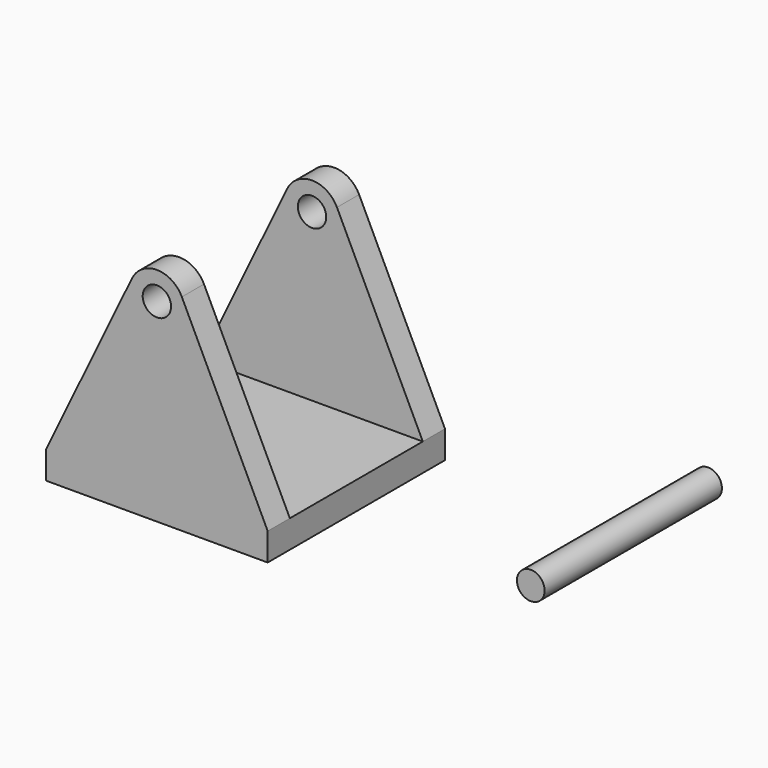
from build123d import *

# Parameters (mm, degrees)
F0_R     = 3.175
F1_DEPTH = 50.8
F0_W     = 50.8
F0_H     = 6.35
F2_DEPTH = 50.8
F0_R_2   = 3.2512
F3_DEPTH = 6.35
F4_R     = 3.2512
F5_DEPTH = 6.35


with BuildPart() as f1:
    # F0 (on Front) → F1 (new body)
    with BuildSketch(Plane.XZ):
        with Locations((38.885698, 34.820646)):
            Circle(F0_R)
    extrude(amount=F1_DEPTH)


with BuildPart() as f2:
    # F0 (on Front) → F2 (new body)
    with BuildSketch(Plane.XZ):
        with Locations((-46.82683, 23.011949)):
            Rectangle(F0_W, F0_H)
    extrude(amount=F2_DEPTH)

    # F0 (on Front) → F3 (join)
    with BuildSketch(Plane.XZ):
        with BuildLine():
            Line((-52.547761, 67.04257), (-72.22683, 26.186949))
            Line((-72.22683, 26.186949), (-21.42683, 26.186949))
            Line((-21.42683, 26.186949), (-41.105899, 67.04257))
            ThreePointArc((-41.105899, 67.04257), (-40.636094, 65.700205), (-40.47683, 64.286949))
            ThreePointArc((-40.47683, 64.286949), (-48.240086, 58.096214), (-52.547761, 67.04257))
        make_face()
        with BuildLine():
            ThreePointArc((-41.105899, 67.04257), (-46.82683, 70.636949), (-52.547761, 67.04257))
            ThreePointArc((-52.547761, 67.04257), (-48.240086, 58.096214), (-40.47683, 64.286949))
            ThreePointArc((-40.47683, 64.286949), (-40.636094, 65.700205), (-41.105899, 67.04257))
        make_face()
        with Locations((-46.82683, 64.286949)):
            Circle(F0_R_2, mode=Mode.SUBTRACT)
        with BuildLine():
            Line((-52.547761, 67.04257), (-72.22683, 26.186949))
            Line((-72.22683, 26.186949), (-21.42683, 26.186949))
            Line((-21.42683, 26.186949), (-41.105899, 67.04257))
            ThreePointArc((-41.105899, 67.04257), (-40.636094, 65.700205), (-40.47683, 64.286949))
            ThreePointArc((-40.47683, 64.286949), (-48.240086, 58.096214), (-52.547761, 67.04257))
        make_face()
    extrude(amount=F3_DEPTH)

    # F4 (on face) → F5 (join)
    with BuildSketch(Plane.XZ.offset(50.8)):
        with BuildLine():
            ThreePointArc((-41.105899, 67.04257), (-46.82683, 70.636949), (-52.547761, 67.04257))
            Line((-52.547761, 67.04257), (-72.22683, 26.186949))
            Line((-72.22683, 26.186949), (-21.42683, 26.186949))
            Line((-21.42683, 26.186949), (-41.105899, 67.04257))
        make_face()
        with Locations((-46.82683, 64.286949)):
            Circle(F4_R, mode=Mode.SUBTRACT)
    extrude(amount=-F5_DEPTH)


solid = Compound([f1.part, f2.part])
